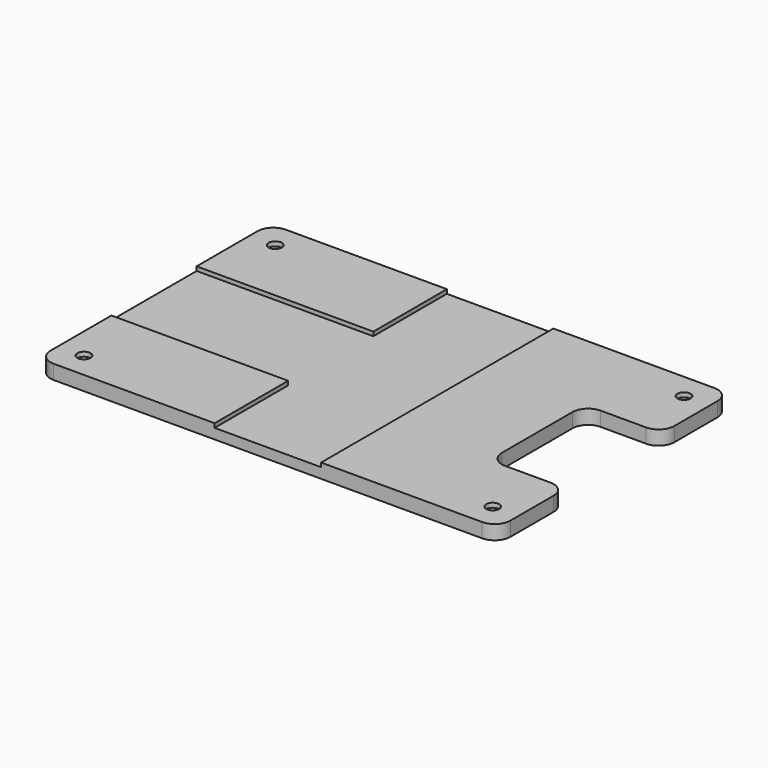
from build123d import *

# Parameters (mm, degrees)
F1_DEPTH = 2.667
F2_R     = 1.2192
F3_DEPTH = 2.668
F5_DEPTH = 1.8415
F7_DEPTH = 0.762
F9_DEPTH = 2.668
F10_R    = 2.921


with BuildPart() as f1:
    # F0 (on Top) → F1 (new body)
    with BuildSketch(Plane.XY):
        with BuildLine():
            Line((39.85895, 27.0002), (-39.85895, 27.0002))
            ThreePointArc((-39.85895, 27.0002), (-41.9244089078, 26.1446589078), (-42.77995, 24.0792))
            Line((-42.77995, 24.0792), (-42.77995, -24.0792))
            ThreePointArc((-42.77995, -24.0792), (-41.9244089078, -26.1446589078), (-39.85895, -27.0002))
            Line((-39.85895, -27.0002), (39.85895, -27.0002))
            ThreePointArc((39.85895, -27.0002), (41.9244089078, -26.1446589078), (42.77995, -24.0792))
            Line((42.77995, -24.0792), (42.77995, 24.0792))
            ThreePointArc((42.77995, 24.0792), (41.9244089078, 26.1446589078), (39.85895, 27.0002))
        make_face()
    extrude(amount=F1_DEPTH)

    # F2 (on face) → F3 (cut, through all)
    with BuildSketch(Plane(origin=(0, 0, 0), x_dir=(1, 0, 0), z_dir=(0, 0, -1))):
        with Locations((-38.01745, 22.2377)):
            Circle(F2_R)
        with Locations((-38.01745, -22.2377)):
            Circle(F2_R)
        with Locations((38.01745, -22.2377)):
            Circle(F2_R)
        with Locations((38.01745, 22.2377)):
            Circle(F2_R)
    extrude(amount=-F3_DEPTH, mode=Mode.SUBTRACT)

    # F4 (on face) → F5 (cut)
    with BuildSketch(Plane(origin=(0, 0, 0), x_dir=(1, 0, 0), z_dir=(0, 0, -1))):
        Polygon((-36.5693111873, 19.72945), (-35.1211723746, 22.2377), (-36.5693111873, 24.74595), (-39.4655888127, 24.74595), (-40.9137276254, 22.2377), (-39.4655888127, 19.72945), align=None)
        Polygon((-35.1211723746, -22.2377), (-36.5693111873, -19.72945), (-39.4655888127, -19.72945), (-40.9137276254, -22.2377), (-39.4655888127, -24.74595), (-36.5693111873, -24.74595), align=None)
        Polygon((35.1211723746, 22.2377), (36.5693111873, 19.72945), (39.4655888127, 19.72945), (40.9137276254, 22.2377), (39.4655888127, 24.74595), (36.5693111873, 24.74595), align=None)
        Polygon((36.5693111873, -19.72945), (35.1211723746, -22.2377), (36.5693111873, -24.74595), (39.4655888127, -24.74595), (40.9137276254, -22.2377), (39.4655888127, -19.72945), align=None)
    extrude(amount=-F5_DEPTH, mode=Mode.SUBTRACT)

    # F6 (on face) → F7 (cut)
    with BuildSketch(Plane.XY.offset(2.667)):
        Polygon((9.906, 27.0002), (-9.906, 27.0002), (-9.906, 9.906), (-42.77995, 9.906), (-42.77995, -9.906), (-9.906, -9.906), (-9.906, -27.0002), (9.906, -27.0002), align=None)
    extrude(amount=-F7_DEPTH, mode=Mode.SUBTRACT)

    # F8 (on face) → F9 (cut, through all)
    with BuildSketch(Plane.XY.offset(2.667)):
        with BuildLine():
            Line((57.06745, 11.1125), (31.41345, 11.1125))
            ThreePointArc((31.41345, 11.1125), (29.3479910922, 10.2569589078), (28.49245, 8.1915))
            Line((28.49245, 8.1915), (28.49245, -8.1915))
            ThreePointArc((28.49245, -8.1915), (29.3479910922, -10.2569589078), (31.41345, -11.1125))
            Line((31.41345, -11.1125), (57.06745, -11.1125))
            Line((57.06745, -11.1125), (57.06745, 11.1125))
        make_face()
    extrude(amount=-F9_DEPTH, mode=Mode.SUBTRACT)

    # F10
    f10_edges = [f1.edges().sort_by_distance(p)[0] for p in [
        (42.77995, 11.1125, 1.3335),
        (42.77995, -11.1125, 1.3335),
    ]]
    fillet(f10_edges, radius=F10_R)


solid = f1.part
